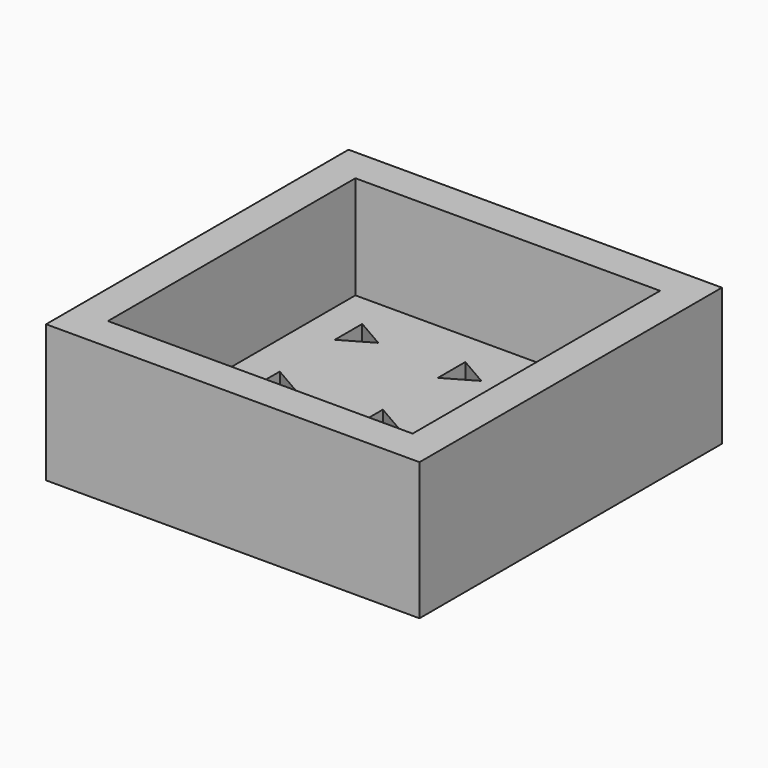
from build123d import *

# Parameters (mm, degrees)
F0_W     = 54.330127
F0_H     = 55
F1_DEPTH = 5
F2_W     = 54.330127
F2_H     = 55
F2_W_2   = 44.330127
F2_H_2   = 45
F4_DEPTH = 15


with BuildPart() as f1:
    # F0 (on Top) → F1 (new body)
    with BuildSketch(Plane.XY):
        with Locations((17.165063, 17.5)):
            Rectangle(F0_W, F0_H)
        Polygon((0, 0), (0, 5), (4.330127, 2.5), align=None, mode=Mode.SUBTRACT)
        Polygon((15, 5), (19.330127, 2.5), (15, 0), align=None, mode=Mode.SUBTRACT)
        Polygon((30, 5), (34.330127, 2.5), (30, 0), align=None, mode=Mode.SUBTRACT)
        Polygon((0, 20), (4.330127, 17.5), (0, 15), align=None, mode=Mode.SUBTRACT)
        Polygon((0, 35), (4.330127, 32.5), (0, 30), align=None, mode=Mode.SUBTRACT)
        Polygon((15, 20), (19.330127, 17.5), (15, 15), align=None, mode=Mode.SUBTRACT)
        Polygon((30, 20), (34.330127, 17.5), (30, 15), align=None, mode=Mode.SUBTRACT)
        Polygon((15, 35), (19.330127, 32.5), (15, 30), align=None, mode=Mode.SUBTRACT)
        Polygon((30, 35), (34.330127, 32.5), (30, 30), align=None, mode=Mode.SUBTRACT)
    extrude(amount=F1_DEPTH)

    # F2 (on face) → F4 (join)
    with BuildSketch(Plane.XY.offset(5)):
        with Locations((17.165063, 17.5)):
            Rectangle(F2_W, F2_H)
        with Locations((17.165063, 17.5)):
            Rectangle(F2_W_2, F2_H_2, mode=Mode.SUBTRACT)
    extrude(amount=F4_DEPTH)


solid = f1.part
